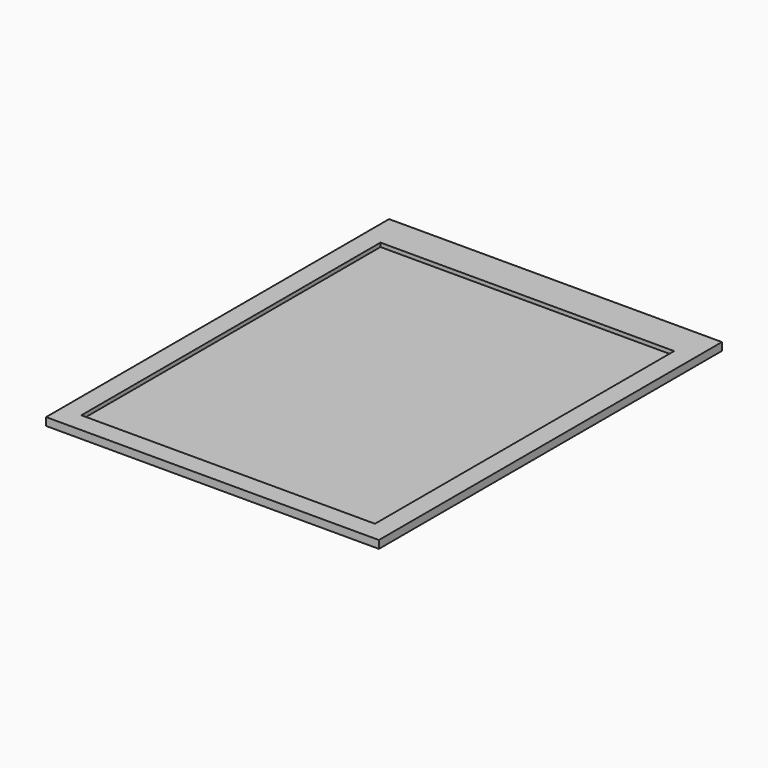
from build123d import *

# Parameters (mm, degrees)
SKETCH081_W      = 75
SKETCH081_H      = 95.5
EXTRUDE073_DEPTH = 1
SKETCH071_W      = 85
SKETCH071_H      = 109.5
EXTRUDE061_DEPTH = 2


with BuildPart() as extrude073:
    # Sketch081 → Extrude073 (new body)
    with BuildSketch(Plane.XY.offset(4)):
        with Locations((37.5, 49.25)):
            Rectangle(SKETCH081_W, SKETCH081_H)
    extrude(amount=EXTRUDE073_DEPTH)


with BuildPart() as cut008:
    # Sketch071 → Extrude061 (new body)
    with BuildSketch(Plane.XY.offset(3)):
        with Locations((37.5, 51.25)):
            Rectangle(SKETCH071_W, SKETCH071_H)
    extrude(amount=EXTRUDE061_DEPTH)

    # Cut008: cut Extrude073
    add(extrude073.part, mode=Mode.SUBTRACT)


solid = cut008.part
